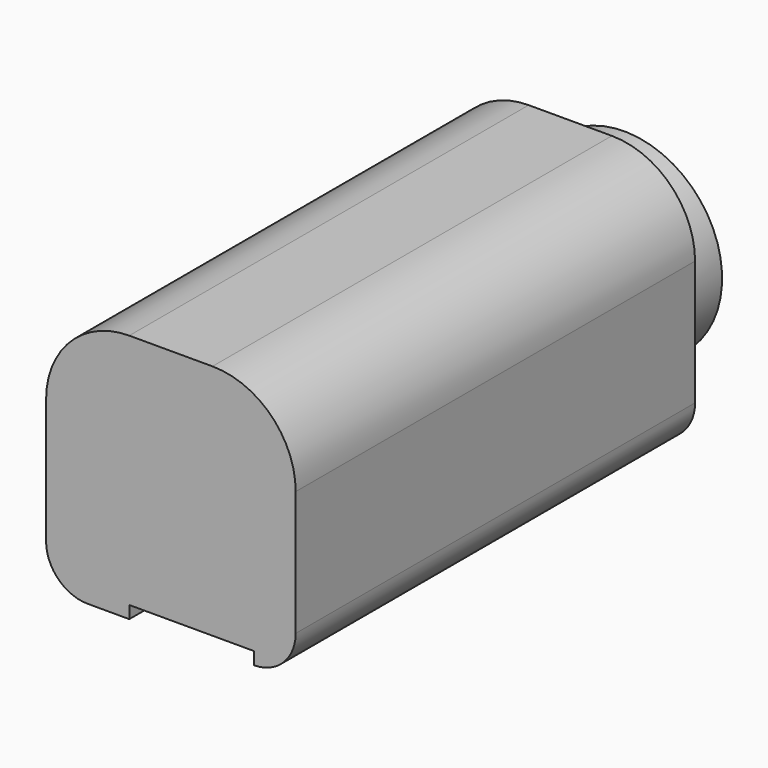
from build123d import *

# Parameters (mm, degrees)
F0_W     = 60
F0_H     = 120
F1_DEPTH = 60
F2_R     = 3
F3_DEPTH = 7
F4_R     = 20
F5_R     = 10
F6_R     = 23.5
F7_DEPTH = 10
F8_W     = 30
F8_H     = 25
F9_DEPTH = 3


with BuildPart() as f1:
    # F0 (on Top) → F1 (new body)
    with BuildSketch(Plane.XY):
        Rectangle(F0_W, F0_H)
    extrude(amount=F1_DEPTH)

    # F2 (on face) → F3 (cut)
    with BuildSketch(Plane(origin=(0, 0, 0), x_dir=(1, 0, 0), z_dir=(0, 0, -1))):
        with Locations((5, -30)):
            Circle(F2_R)
    extrude(amount=-F3_DEPTH, mode=Mode.SUBTRACT)

    # F4
    f4_edges = [f1.edges().sort_by_distance(p)[0] for p in [
        (30, 0, 60),
        (-30, 0, 60),
    ]]
    fillet(f4_edges, radius=F4_R)

    # F5
    f5_edges = [f1.edges().sort_by_distance(p)[0] for p in [
        (30, 0, 0),
        (-30, 0, 0),
    ]]
    fillet(f5_edges, radius=F5_R)

    # F6 (on face) → F7 (join)
    with BuildSketch(Plane(origin=(0, 60, 0), x_dir=(-1, 0, 0), z_dir=(0, 1, 0))):
        with Locations((-5, 31.7827425897)):
            Circle(F6_R)
    extrude(amount=F7_DEPTH)

    # F8 (on face) → F9 (cut)
    with BuildSketch(Plane(origin=(0, 0, 0), x_dir=(1, 0, 0), z_dir=(0, 0, -1))):
        with Locations((5, 47.5)):
            Rectangle(F8_W, F8_H)
    extrude(amount=-F9_DEPTH, mode=Mode.SUBTRACT)


solid = f1.part
